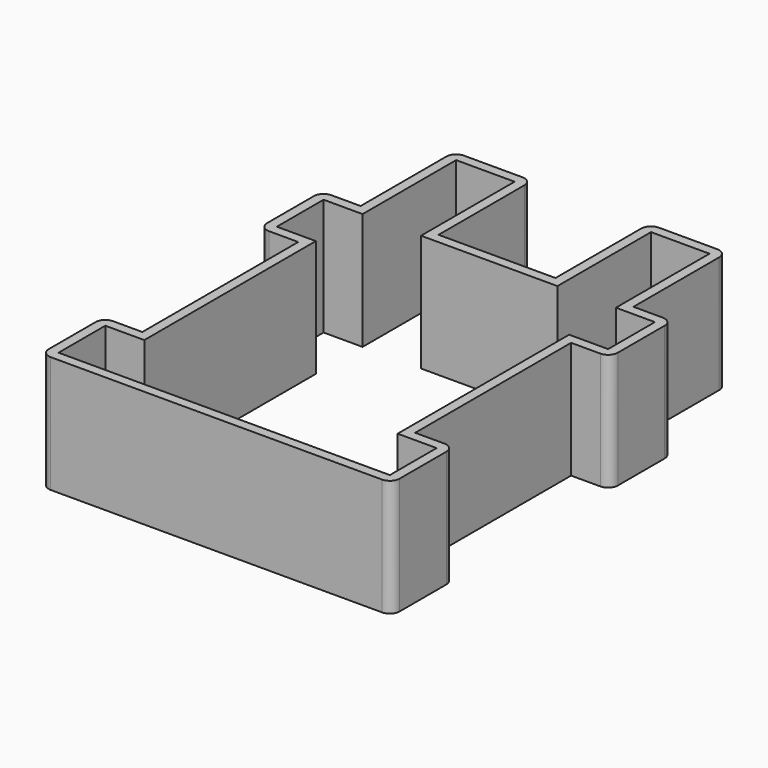
from build123d import *

# Parameters (mm, degrees)
F1_DEPTH = 38.1
F2_R     = 3.175


with BuildPart() as f1:
    # F0 (on Top) → F1 (new body)
    with BuildSketch(Plane.XY):
        Polygon((-12.7, 0), (0, 0), (0, -63.5), (-12.7, -63.5), (-12.7, -88.9), (101.6, -88.9), (101.6, -63.5), (88.9, -63.5), (88.9, 0), (101.6, 0), (101.6, 25.4), (88.9, 25.4), (88.9, 63.5), (63.5, 63.5), (63.5, 25.4), (25.4, 25.4), (25.4, 63.5), (0, 63.5), (0, 25.4), (-12.7, 25.4), align=None)
        Polygon((22.225, 60.325), (22.225, 22.225), (66.675, 22.225), (66.675, 60.325), (85.725, 60.325), (85.725, 22.225), (98.425, 22.225), (98.425, 3.175), (85.725, 3.175), (85.725, -66.675), (98.425, -66.675), (98.425, -85.725), (-9.525, -85.725), (-9.525, -66.675), (3.175, -66.675), (3.175, 3.175), (-9.525, 3.175), (-9.525, 22.225), (3.175, 22.225), (3.175, 60.325), align=None, mode=Mode.SUBTRACT)
    extrude(amount=F1_DEPTH)

    # F2
    f2_edges = [f1.edges().sort_by_distance(p)[0] for p in [
        (0, 63.5, 19.05),
        (25.4, 63.5, 19.05),
        (63.5, 63.5, 19.05),
        (88.9, 63.5, 19.05),
        (101.6, 25.4, 19.05),
        (101.6, 0, 19.05),
        (101.6, -63.5, 19.05),
        (101.6, -88.9, 19.05),
        (-12.7, 25.4, 19.05),
        (-12.7, 0, 19.05),
        (-12.7, -63.5, 19.05),
        (-12.7, -88.9, 19.05),
    ]]
    fillet(f2_edges, radius=F2_R)


solid = f1.part
